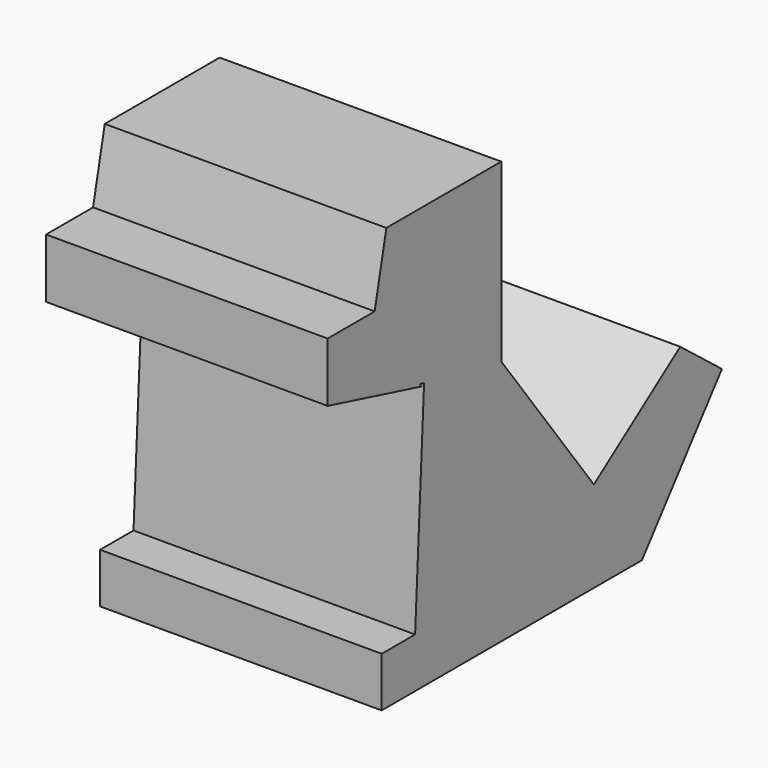
from build123d import *

# Parameters (mm, degrees)
F0_W     = 88.9
F0_H     = 76.2
F1_DEPTH = 50.8
F4_DEPTH = 50.8
F7_DEPTH = 50.8


with BuildPart() as f1:
    # F0 (on Right) → F1 (new body)
    with BuildSketch(Plane.YZ):
        with Locations((44.45, 38.1)):
            Rectangle(F0_W, F0_H)
    extrude(amount=F1_DEPTH)

    # F2 (on face) → F4 (cut)
    with BuildSketch(Plane.YZ.offset(50.8)):
        Polygon((0, 76.2), (0, 64.015649), (10.592989, 64.015649), (13.236613, 76.2), align=None)
        Polygon((88.9, 76.2), (39.144106, 76.2), (39.144106, 44.45285), (60.028717, 16.43046), (79.499279, 30.397216), (88.9, 23.039514), align=None)
        Polygon((88.9, 23.039514), (70.867568, 0), (88.9, 0), align=None)
    extrude(amount=-F4_DEPTH, mode=Mode.SUBTRACT)

    # F6 (on face) → F7 (cut)
    with BuildSketch(Plane.YZ.offset(50.8)):
        Polygon((21.15212, 47.791194), (0, 53.31191), (0, 0), (12.17937, 0), (12.17937, 8.996861), (19.713309, 8.996861), (21.741677, 48.115388), (20.793015, 48.34297), align=None)
    extrude(amount=-F7_DEPTH, mode=Mode.SUBTRACT)


solid = f1.part
